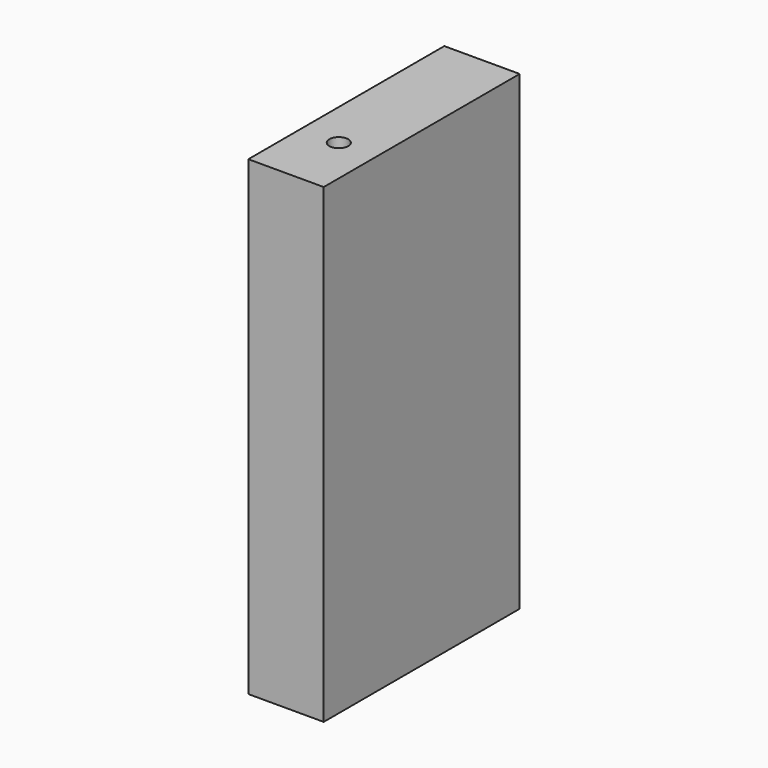
from build123d import *

# Parameters (mm, degrees)
F0_W      = 40
F0_H      = 130
F1_DEPTH  = 250
F2_R      = 5
F3_DEPTH  = 15
F4_W      = 40
F4_H      = 130
F6_DEPTH  = 20
F5_R      = 5
F7_DEPTH  = 40
F8_R      = 5
F9_DEPTH  = 20
F10_DEPTH = 19.9


with BuildPart() as f1:
    # F0 (on Top) → F1 (new body)
    with BuildSketch(Plane.XY):
        with Locations((-20, -65)):
            Rectangle(F0_W, F0_H)
    extrude(amount=F1_DEPTH)

    # F2 (on face) → F3 (cut)
    with BuildSketch(Plane(origin=(0, 0, 0), x_dir=(-1, 0, 0), z_dir=(0, 1, 0))):
        with Locations((20, 150)):
            Circle(F2_R)
        with Locations((20, 100)):
            Circle(F2_R)
    extrude(amount=-F3_DEPTH, mode=Mode.SUBTRACT)

    # F4 (on face) → F6 (cut)
    with BuildSketch(Plane.XY.offset(250)):
        with Locations((-20, -65)):
            Rectangle(F4_W, F4_H)
    extrude(amount=-F6_DEPTH, mode=Mode.SUBTRACT)

    # F5 (on face) → F7 (cut)
    with BuildSketch(Plane.XY.offset(250)):
        with Locations((-20, -95)):
            Circle(F5_R)
    extrude(amount=-F7_DEPTH, mode=Mode.SUBTRACT)

    # F8 (on face) → F9 (cut)
    with BuildSketch(Plane(origin=(0, 0, 0), x_dir=(1, 0, 0), z_dir=(0, 0, -1))):
        with Locations((-20, 95)):
            Circle(F8_R)
    extrude(amount=-F9_DEPTH, mode=Mode.SUBTRACT)

    # F10 (add): a face of the model
    f10_faces = [f1.faces().sort_by_distance(p)[0] for p in [
        (-20, -64.53993697, 230),
    ]]
    extrude(f10_faces, amount=F10_DEPTH)


solid = f1.part
